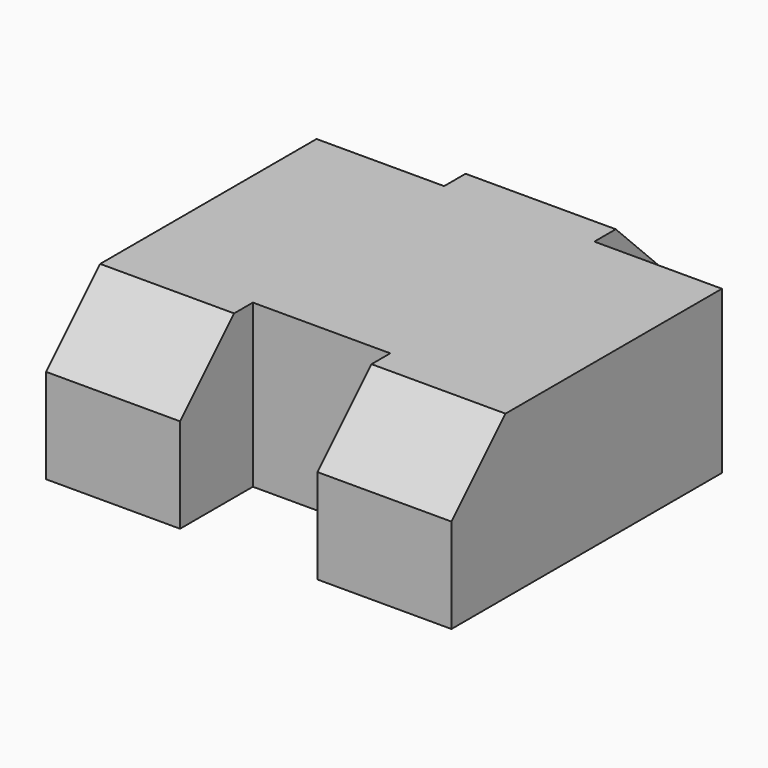
from build123d import *

# Parameters (mm, degrees)
SKETCH_W             = 3.2
SKETCH_H             = 3
PAD_DEPTH            = 1.2
CHAMFER_SIZE         = 0.5
SKETCH001_W          = 1.850896
SKETCH001_H          = 1.017
SKETCH001_W_2        = 1.709498
SKETCH001_H_2        = 1.155216
POCKET_DEPTH         = 5
BODY_PLACEMENT_ANGLE = 90


with BuildPart() as part:
    # Sketch → Pad (new body)
    with BuildSketch(Plane.XY):
        Rectangle(SKETCH_W, SKETCH_H)
    extrude(amount=PAD_DEPTH)

    # Chamfer
    chamfer_edges = [part.edges().sort_by_distance(p)[0] for p in [
        (-1.6, 0, 1.2),
        (1.6, 0, 1.2),
    ]]
    chamfer(chamfer_edges, length=CHAMFER_SIZE)

    # Sketch001 (on Face5 of Chamfer) → Pocket (cut)
    with BuildSketch(Plane.XY.offset(1.2)):
        with Locations((-1.851985, 0)):
            Rectangle(SKETCH001_W, SKETCH001_H)
        with Locations((1.75658, 1.133439)):
            Rectangle(SKETCH001_W_2, SKETCH001_H_2)
        with Locations((1.75658, -1.133439)):
            Rectangle(SKETCH001_W_2, SKETCH001_H_2)
    extrude(amount=-POCKET_DEPTH, mode=Mode.SUBTRACT)


with BuildPart() as part_1:
    # Body placement: moved
    add(part.part.rotate(Axis((0, 0, 0), (0, 0, 1)), BODY_PLACEMENT_ANGLE))


solid = part_1.part
